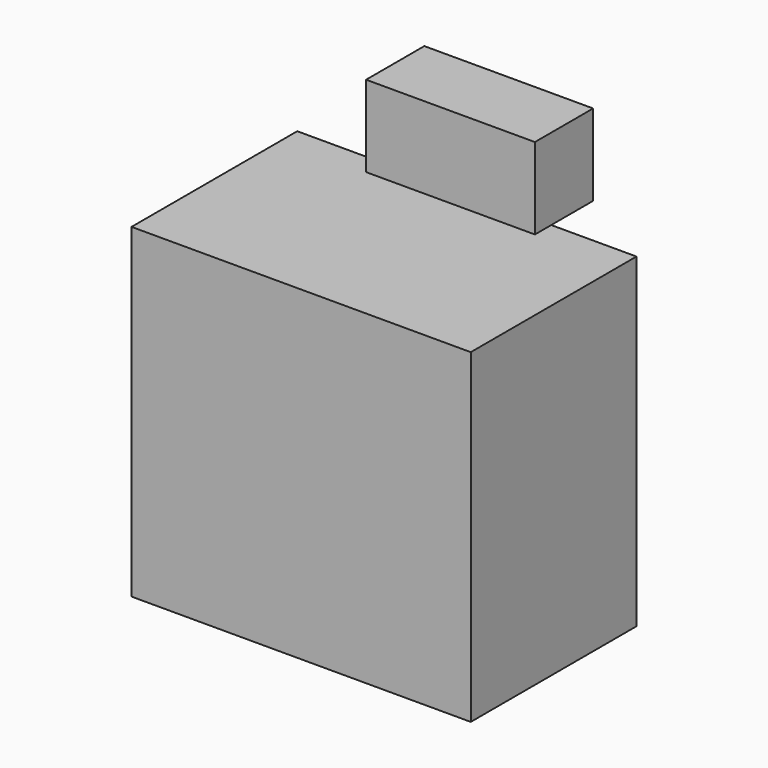
from build123d import *

# Parameters (mm, degrees)
F0_W     = 105.880156
F0_H     = 64.64842
F1_DEPTH = 101.6
F2_W     = 52.683708
F2_H     = 22.719323
F3_DEPTH = 25.4


with BuildPart() as f1:
    # F0 (on Top) → F1 (new body)
    with BuildSketch(Plane.XY):
        Rectangle(F0_W, F0_H)
    extrude(amount=-F1_DEPTH)

    # F2 (on Top) → F3 (join)
    with BuildSketch(Plane.XY):
        with Locations((0, 37.304982)):
            Rectangle(F2_W, F2_H)
    extrude(amount=F3_DEPTH)


solid = f1.part
